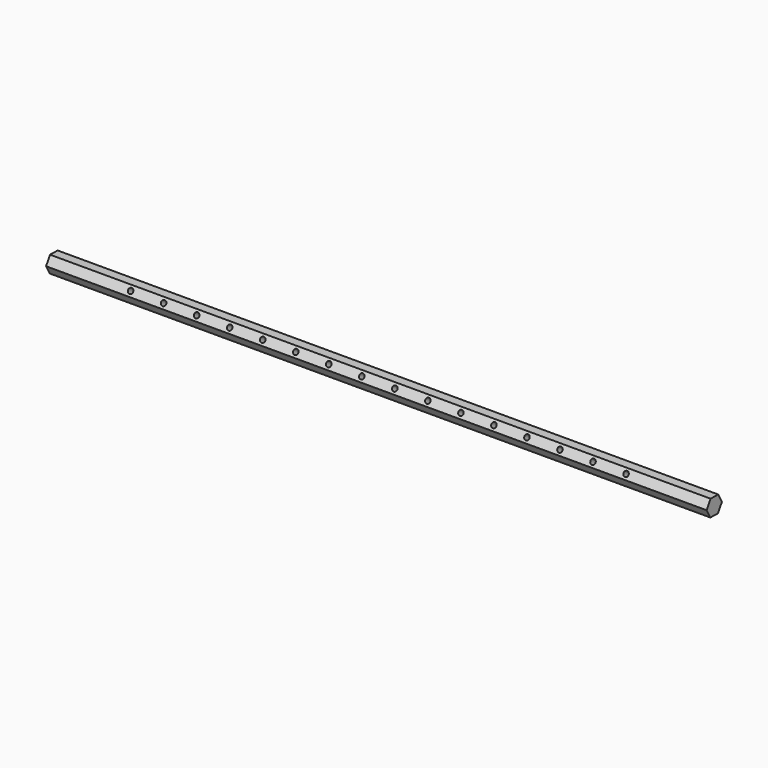
from build123d import *

# Parameters (mm, degrees)
F1_DEPTH = 508
F3_D     = 3.96875


with BuildPart() as f1:
    # F0 (on Right) → F1 (new body)
    with BuildSketch(Plane.YZ):
        Polygon((3.563291408, -6.4082983447), (7.3313948656, -0.118248292), (3.7681034576, 6.2900500528), (-3.563291408, 6.4082983447), (-7.3313948656, 0.118248292), (-3.7681034576, -6.2900500528), align=None)
    extrude(amount=F1_DEPTH)

    # F3 (through all)
    with Locations(Plane(origin=(0, -5.4473431368, 3.2632733184), x_dir=(1, 0, 0), z_dir=(0, -0.8578493129, 0.51390131))):
        with Locations((63.5, 0), (88.9, 0), (114.3, 0), (139.7, 0), (165.1, 0), (190.5, 0), (215.9, 0), (241.3, 0), (266.7, 0), (292.1, 0), (317.5, 0), (342.9, 0), (368.3, 0), (393.7, 0), (419.1, 0), (444.5, 0)):
            Hole(F3_D / 2)


solid = f1.part
